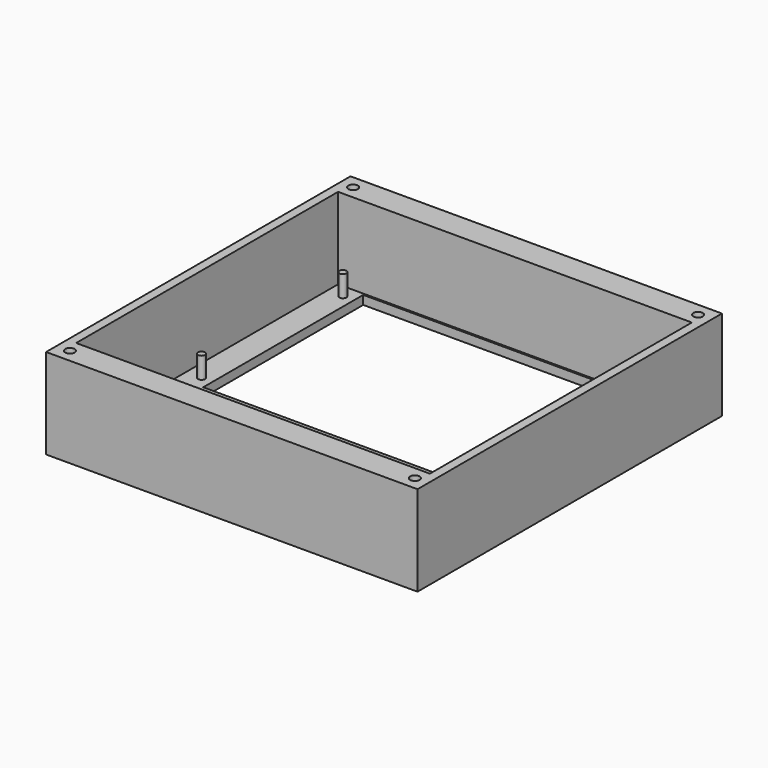
from build123d import *

# Parameters (mm, degrees)
F0_W      = 104.96
F0_H      = 107.52
F0_W_2    = 6.23
F0_H_2    = 6.61
F0_R      = 1
F1_DEPTH  = 3.5
F2_DEPTH  = 22
F3_T      = -2.5
F4_DEPTH  = 3.501
F5_DEPTH  = 5
F5_FACE_R = 1
F6_DEPTH  = 1
F7_DEPTH  = 5
F8_DEPTH  = 5
F9_R      = 1.35
F10_DEPTH = 19.05


with BuildPart() as f1:
    # F0 (on Top) → F1 (new body)
    with BuildSketch(Plane.XY):
        with Locations((0, -17.5)):
            Rectangle(F0_W, F0_H)
        Polygon((-48.71, 28.26), (-42.48, 28.26), (42.48, 28.26), (48.71, 28.26), (48.71, 21.65), (42.48, 21.65), (42.48, -21.65), (48.71, -21.65), (48.71, -28.26), (42.48, -28.26), (-42.48, -28.26), (-48.71, -28.26), (-48.71, -21.65), (-42.48, -21.65), (-42.48, 21.65), (-48.71, 21.65), align=None, mode=Mode.SUBTRACT)
        with Locations((-45.595, -24.955)):
            Rectangle(F0_W_2, F0_H_2)
        with Locations((-45.595, -24.955)):
            Circle(F0_R, mode=Mode.SUBTRACT)
        with Locations((-45.595, 24.955)):
            Rectangle(F0_W_2, F0_H_2)
        with Locations((-45.595, 24.955)):
            Circle(F0_R, mode=Mode.SUBTRACT)
        with Locations((-45.595, 24.955)):
            Circle(F0_R)
        with Locations((-45.595, -24.955)):
            Circle(F0_R)
        with Locations((45.595, -24.955)):
            Rectangle(F0_W_2, F0_H_2)
        with Locations((45.595, -24.955)):
            Circle(F0_R, mode=Mode.SUBTRACT)
        with Locations((45.595, -24.955)):
            Circle(F0_R)
        with Locations((45.595, 24.955)):
            Rectangle(F0_W_2, F0_H_2)
        with Locations((45.595, 24.955)):
            Circle(F0_R, mode=Mode.SUBTRACT)
        with Locations((45.595, 24.955)):
            Circle(F0_R)
        Polygon((42.48, 28.26), (-42.48, 28.26), (-42.48, 21.65), (-42.48, -21.65), (-42.48, -28.26), (42.48, -28.26), (42.48, -21.65), (42.48, 21.65), align=None)
    extrude(amount=-F1_DEPTH)

    # F0 (on Top) → F2 (join)
    with BuildSketch(Plane.XY):
        with Locations((0, -17.5)):
            Rectangle(F0_W, F0_H)
        Polygon((-48.71, 28.26), (-42.48, 28.26), (42.48, 28.26), (48.71, 28.26), (48.71, 21.65), (42.48, 21.65), (42.48, -21.65), (48.71, -21.65), (48.71, -28.26), (42.48, -28.26), (-42.48, -28.26), (-48.71, -28.26), (-48.71, -21.65), (-42.48, -21.65), (-42.48, 21.65), (-48.71, 21.65), align=None, mode=Mode.SUBTRACT)
        with Locations((-45.595, -24.955)):
            Rectangle(F0_W_2, F0_H_2)
        with Locations((-45.595, -24.955)):
            Circle(F0_R, mode=Mode.SUBTRACT)
        with Locations((-45.595, 24.955)):
            Rectangle(F0_W_2, F0_H_2)
        with Locations((-45.595, 24.955)):
            Circle(F0_R, mode=Mode.SUBTRACT)
        with Locations((45.595, 24.955)):
            Rectangle(F0_W_2, F0_H_2)
        with Locations((45.595, 24.955)):
            Circle(F0_R, mode=Mode.SUBTRACT)
        with Locations((45.595, -24.955)):
            Rectangle(F0_W_2, F0_H_2)
        with Locations((45.595, -24.955)):
            Circle(F0_R, mode=Mode.SUBTRACT)
        with Locations((-45.595, -24.955)):
            Circle(F0_R)
        with Locations((-45.595, 24.955)):
            Circle(F0_R)
        with Locations((45.595, 24.955)):
            Circle(F0_R)
        with Locations((45.595, -24.955)):
            Circle(F0_R)
        Polygon((42.48, 28.26), (-42.48, 28.26), (-42.48, 21.65), (-42.48, -21.65), (-42.48, -28.26), (42.48, -28.26), (42.48, -21.65), (42.48, 21.65), align=None)
    extrude(amount=F2_DEPTH)

    # F3
    f3_openings = [f1.faces().sort_by_distance(p)[0] for p in [
        (0, -17.5, 22),
    ]]
    offset(amount=F3_T, openings=f3_openings)

    # F0 (on Top) → F4 (cut, through all)
    with BuildSketch(Plane.XY):
        Polygon((42.48, 28.26), (-42.48, 28.26), (-42.48, 21.65), (-42.48, -21.65), (-42.48, -28.26), (42.48, -28.26), (42.48, -21.65), (42.48, 21.65), align=None)
    extrude(amount=-F4_DEPTH, mode=Mode.SUBTRACT)



with BuildPart() as f5:
    # F0 (on Top) → F5 (new body)
    with BuildSketch(Plane.XY):
        with Locations((-45.595, -24.955)):
            Circle(F0_R)
    extrude(amount=F5_DEPTH)


with BuildPart() as f5b:
    # F0 (on Top) → F5, piece 2 (new body)
    with BuildSketch(Plane.XY):
        with Locations((45.595, 24.955)):
            Circle(F0_R)
    extrude(amount=F5_DEPTH)


with BuildPart() as f5c:
    # F0 (on Top) → F5, piece 3 (new body)
    with BuildSketch(Plane.XY):
        with Locations((45.595, -24.955)):
            Circle(F0_R)
    extrude(amount=F5_DEPTH)


with BuildPart() as f5d:
    # F0 (on Top) → F5, piece 4 (new body)
    with BuildSketch(Plane.XY):
        with Locations((-45.595, 24.955)):
            Circle(F0_R)
    extrude(amount=F5_DEPTH)


with BuildPart() as f1_1:
    add(f1.part)

    add(f5.part)  # F6 merges F5

    add(f5b.part)  # F6 merges F5b

    add(f5c.part)  # F6 merges F5c

    add(f5d.part)  # F6 merges F5d
    # F5_face (on face) → F6 (join)
    with BuildSketch(Plane(origin=(-45.595, 24.955, 0), x_dir=(1, 0, 0), z_dir=(0, 0, -1))):
        Circle(F5_FACE_R)
        with Locations((0, 49.91)):
            Circle(F5_FACE_R)
        with Locations((91.19, 49.91)):
            Circle(F5_FACE_R)
        with Locations((91.19, 0)):
            Circle(F5_FACE_R)
    extrude(amount=F6_DEPTH)

    # F7 (add): a face of the model
    f7_faces = [f1_1.faces().sort_by_distance(p)[0] for p in [
        (0, 33.76, 10.5),
    ]]
    extrude(f7_faces, amount=F7_DEPTH)

    # F8 (add): a face of the model
    f8_faces = [f1_1.faces().sort_by_distance(p)[0] for p in [
        (0, -68.76, 10.5),
    ]]
    extrude(f8_faces, amount=F8_DEPTH)

    # F9 (on face) → F10 (cut)
    with BuildSketch(Plane.XY.offset(22)):
        with Locations((-48.73, 32.51)):
            Circle(F9_R)
        with Locations((48.73, 32.51)):
            Circle(F9_R)
        with Locations((-48.73, -67.51)):
            Circle(F9_R)
        with Locations((48.73, -67.51)):
            Circle(F9_R)
    extrude(amount=-F10_DEPTH, mode=Mode.SUBTRACT)


solid = f1_1.part
